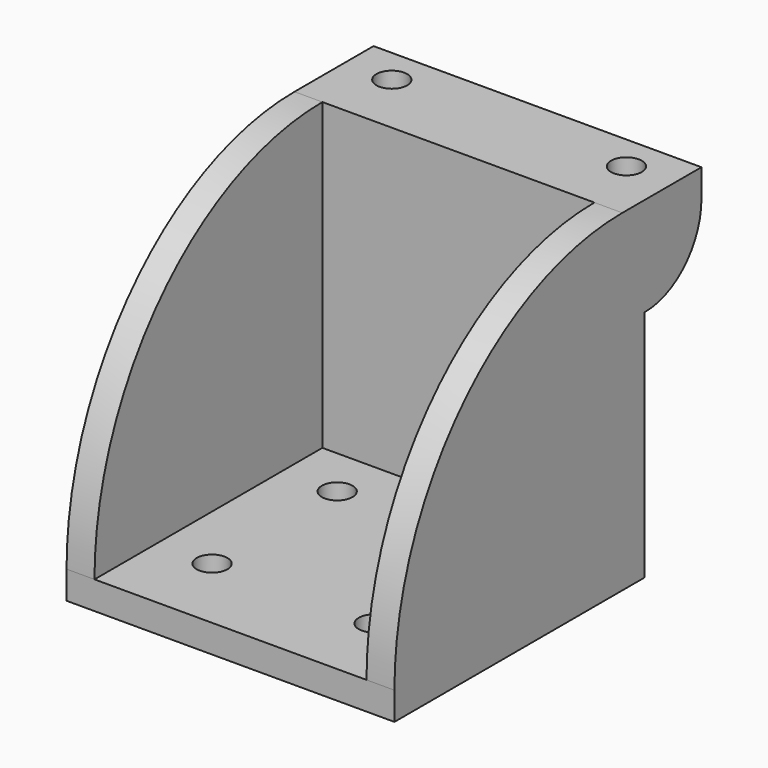
from build123d import *

# Parameters (mm, degrees)
SKETCH013_W  = 27.35
SKETCH013_H  = 12.7
SKETCH013_R  = 2.75
PAD012_DEPTH = 5
PAD013_DEPTH = 5
SKETCH014_W  = 29
SKETCH014_H  = 56
SKETCH014_R  = 2.75
PAD014_DEPTH = 5
PAD015_DEPTH = 5


with BuildPart() as part:
    # Sketch013 → Pad012 (new body)
    with BuildSketch(Plane.XY):
        with Locations((13.675, 6.35)):
            Rectangle(SKETCH013_W, SKETCH013_H)
        with Locations((21, 6.35)):
            Circle(SKETCH013_R, mode=Mode.SUBTRACT)
    pad012 = extrude(amount=-PAD012_DEPTH)

    # Sketch015 → Pad013 (join)
    with BuildSketch(Plane.XZ):
        with BuildLine():
            Line((27.35, 0), (27.35, -40.764007))
            ThreePointArc((27.35, -40.764007), (27.556989, -44.222692), (28.175, -47.632004))
            ThreePointArc((29, -54.5), (28.793011, -51.041315), (28.175, -47.632004))
            Line((29, -59.5), (29, -54.5))
            Line((0, -59.5), (29, -59.5))
            Line((0, 0), (0, -59.5))
            Line((27.35, 0), (0, 0))
        make_face()
    pad013 = extrude(amount=PAD013_DEPTH)

    # Sketch014 → Pad014 (join)
    with BuildSketch(Plane(origin=(0, -56, -59.5), x_dir=(1, 0, 0), z_dir=(0, 0, 1))):
        with Locations((14.5, 28)):
            Rectangle(SKETCH014_W, SKETCH014_H)
        with Locations((14.5, 14)):
            Circle(SKETCH014_R, mode=Mode.SUBTRACT)
        with Locations((14.5, 42)):
            Circle(SKETCH014_R, mode=Mode.SUBTRACT)
    pad014 = extrude(amount=PAD014_DEPTH)

    # Sketch016 → Pad015 (join)
    with BuildSketch(Plane.YZ.offset(24.35)):
        with BuildLine():
            Line((-56, -54.5), (-56, -59.5))
            Line((-56, -59.5), (0, -59.5))
            Line((0, -59.5), (0, -17.7))
            ThreePointArc((0, -17.7), (8.980256, -13.980256), (12.7, -5))
            Line((12.7, -5), (12.7, 0))
            Line((12.7, 0), (0, 0))
            Line((0, 0), (-5, 0))
            add(Edge.make_bspline(
                [(-5, 0), (-56, 0), (-56, -54.5)],
                knots=[0, 0, 0, 1.570796, 1.570796, 1.570796], degree=2, weights=[1, 0.707107, 1]))
        make_face()
    pad015 = extrude(amount=PAD015_DEPTH)

    # Mirrored013: Pad012, Pad013, Pad014, Pad015 across Sketch013 V_Axis
    add(pad012.mirror(Plane(origin=(0, 0, 0), x_dir=(0, 0, 1), z_dir=(1, 0, 0))))
    add(pad013.mirror(Plane(origin=(0, 0, 0), x_dir=(0, 0, 1), z_dir=(1, 0, 0))))
    add(pad014.mirror(Plane(origin=(0, 0, 0), x_dir=(0, 0, 1), z_dir=(1, 0, 0))))
    add(pad015.mirror(Plane(origin=(0, 0, 0), x_dir=(0, 0, 1), z_dir=(1, 0, 0))))


solid = part.part
